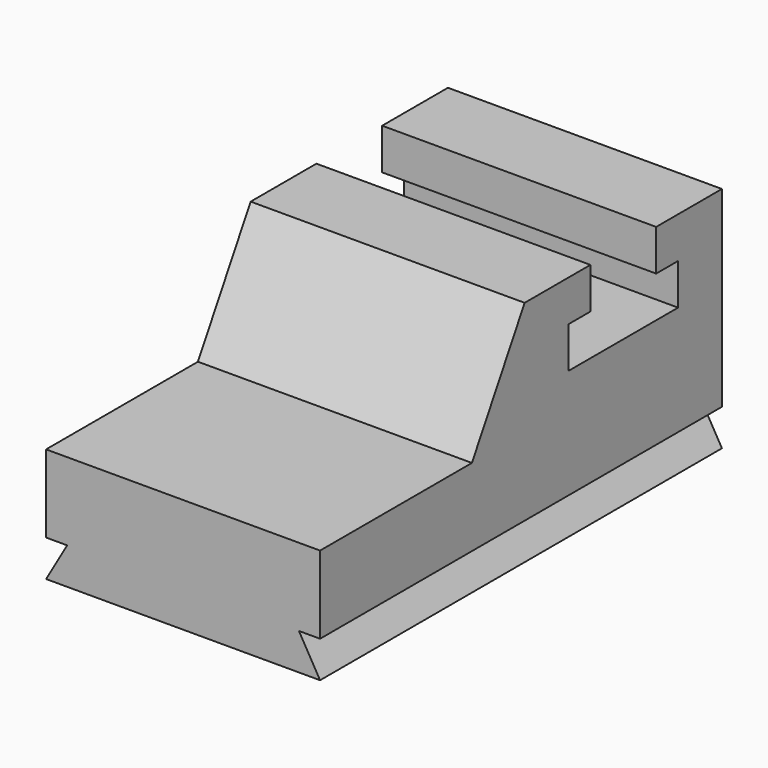
from build123d import *

# Parameters (mm, degrees)
F0_W     = 60
F0_H     = 110
F1_DEPTH = 50
F3_DEPTH = 60.001
F5_DEPTH = 110.001


with BuildPart() as f1:
    # F0 (on Top) → F1 (new body)
    with BuildSketch(Plane.XY):
        Rectangle(F0_W, F0_H)
    extrude(amount=F1_DEPTH)

    # F2 (on face) → F3 (cut, through all)
    with BuildSketch(Plane.YZ.offset(30)):
        Polygon((-55, 50), (-55, 25), (-13.433757, 25), (1, 50), align=None)
        Polygon((37, 50), (19, 50), (19, 41), (13, 41), (13, 32), (43, 32), (43, 41), (37, 41), align=None)
    extrude(amount=-F3_DEPTH, mode=Mode.SUBTRACT)

    # F4 (on face) → F5 (cut, through all)
    with BuildSketch(Plane.XZ.offset(55)):
        Polygon((25.381198, 8), (30, 0), (30, 8), align=None)
        Polygon((-25.381198, 8), (-30, 8), (-30, 0), align=None)
    extrude(amount=-F5_DEPTH, mode=Mode.SUBTRACT)


solid = f1.part
